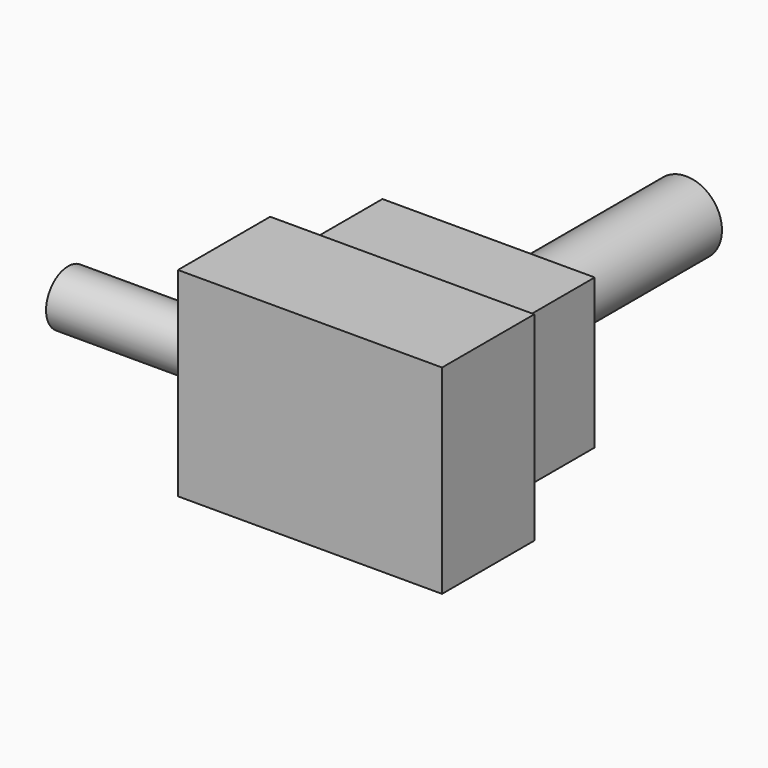
from build123d import *

# Parameters (mm, degrees)
F0_W     = 58.1890903413
F0_H     = 43.9015906304
F1_DEPTH = 25.4
F2_R     = 6.0588899817
F3_DEPTH = 34.544
F4_W     = 46.7590875924
F4_H     = 32.9911382869
F5_DEPTH = 25.4
F6_R     = 7.896006859
F7_DEPTH = 53.086


with BuildPart() as f1:
    # F0 (on Front) → F1 (new body)
    with BuildSketch(Plane.XZ):
        with Locations((3.1172726303, -6.3644321635)):
            Rectangle(F0_W, F0_H)
    extrude(amount=F1_DEPTH)

    # F2 (on face) → F3 (join)
    with BuildSketch(Plane(origin=(-25.9772725403, 0, 0), x_dir=(0, -1, 0), z_dir=(-1, 0, 0))):
        with Locations((12.4690905213, -6.2345452607)):
            Circle(F2_R)
    extrude(amount=F3_DEPTH)

    # F4 (on face) → F5 (join)
    with BuildSketch(Plane(origin=(0, 0, 0), x_dir=(-1, 0, 0), z_dir=(0, 1, 0))):
        with Locations((-1.8184091896, -6.3644326292)):
            Rectangle(F4_W, F4_H)
    extrude(amount=F5_DEPTH)

    # F6 (on face) → F7 (join)
    with BuildSketch(Plane(origin=(0, 25.4, 0), x_dir=(-1, 0, 0), z_dir=(0, 1, 0))):
        with Locations((-2.8758263215, -6.9701997563)):
            Circle(F6_R)
    extrude(amount=F7_DEPTH)


solid = f1.part
